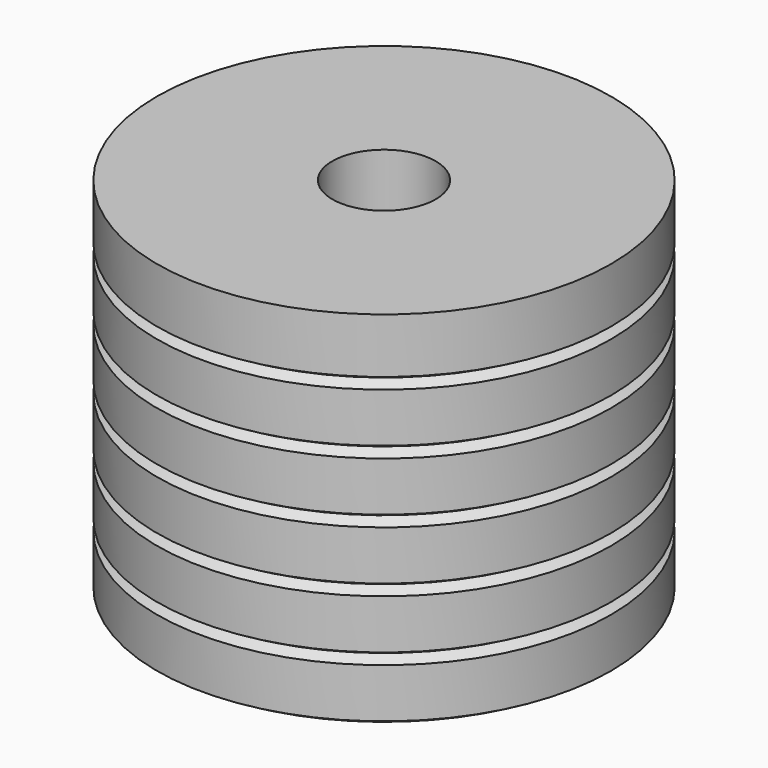
from build123d import *

# Parameters (mm, degrees)
F0_W     = 11.8872
F0_H     = 2.881706
F0_H_2   = 2.588412
F2_R     = 2.7051
F3_DEPTH = 19.05


with BuildPart() as f1:
    # F0 (on Front) → F1 (revolve)
    with BuildSketch(Plane.XZ):
        with Locations((5.9436, 17.609147)):
            Rectangle(F0_W, F0_H)
        Polygon((11.8872, 16.168294), (0, 16.168294), (0.508, 15.875), (11.8872, 15.875), align=None)
        Polygon((0.508, 15.875), (0, 15.581706), (11.8872, 15.581706), (11.8872, 15.875), align=None)
        with Locations((5.9436, 14.2875)):
            Rectangle(F0_W, F0_H_2)
        Polygon((11.8872, 12.993294), (0, 12.993294), (0.508, 12.7), (11.8872, 12.7), align=None)
        Polygon((0.508, 12.7), (0, 12.406706), (11.8872, 12.406706), (11.8872, 12.7), align=None)
        with Locations((5.9436, 11.1125)):
            Rectangle(F0_W, F0_H_2)
        Polygon((11.8872, 9.818294), (0, 9.818294), (0.508, 9.525), (11.8872, 9.525), align=None)
        Polygon((0.508, 9.525), (0, 9.231706), (11.8872, 9.231706), (11.8872, 9.525), align=None)
        with Locations((5.9436, 7.9375)):
            Rectangle(F0_W, F0_H_2)
        Polygon((11.8872, 6.643294), (0, 6.643294), (0.508, 6.35), (11.8872, 6.35), align=None)
        Polygon((0.508, 6.35), (0, 6.056706), (11.8872, 6.056706), (11.8872, 6.35), align=None)
        with Locations((5.9436, 4.7625)):
            Rectangle(F0_W, F0_H_2)
        Polygon((11.8872, 3.468294), (0, 3.468294), (0.508, 3.175), (11.8872, 3.175), align=None)
        Polygon((0.508, 3.175), (0, 2.881706), (11.8872, 2.881706), (11.8872, 3.175), align=None)
        with Locations((5.9436, 1.5875)):
            Rectangle(F0_W, F0_H_2)
        Polygon((0, 0.293294), (0.508, 0), (11.8872, 0), (11.8872, 0.293294), align=None)
    revolve(axis=Axis((11.8872, 0, 9.525), (0, 0, -1)))

    # F2 (on face) → F3 (cut, through all)
    with BuildSketch(Plane.XY.offset(19.05)):
        with Locations((11.8872, 0)):
            Circle(F2_R)
    extrude(amount=-F3_DEPTH, mode=Mode.SUBTRACT)


solid = f1.part
